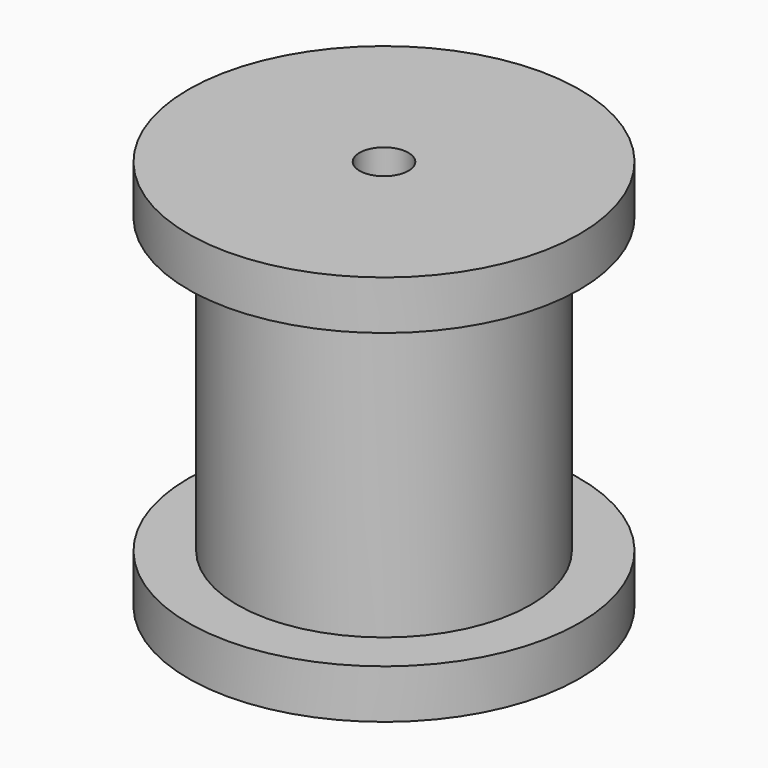
from build123d import *

# Parameters (mm, degrees)
F0_R     = 9.525
F1_DEPTH = 19.05
F2_R     = 12.7
F3_DEPTH = 3.175
F4_R     = 12.7
F4_R_2   = 9.525
F5_DEPTH = 3.175
F6_R     = 1.5875
F7_DEPTH = 25.4


with BuildPart() as f1:
    # F0 (on Top) → F1 (new body)
    with BuildSketch(Plane.XY):
        Circle(F0_R)
    extrude(amount=F1_DEPTH)

    # F2 (on Top) → F3 (join)
    with BuildSketch(Plane.XY):
        Circle(F2_R)
    extrude(amount=-F3_DEPTH)

    # F4 (on face) → F5 (join)
    with BuildSketch(Plane.XY.offset(19.05)):
        Circle(F4_R)
        Circle(F4_R_2, mode=Mode.SUBTRACT)
        Circle(F4_R_2)
    extrude(amount=F5_DEPTH)

    # F6 (on Top) → F7 (cut, symmetric)
    with BuildSketch(Plane.XY):
        Circle(F6_R)
    extrude(amount=F7_DEPTH, both=True, mode=Mode.SUBTRACT)


solid = f1.part
